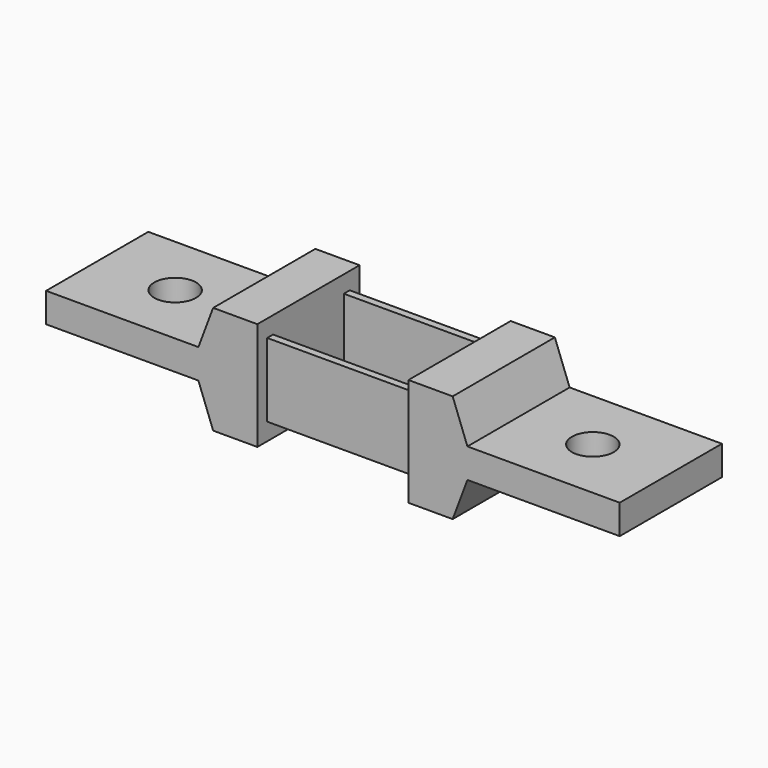
from build123d import *

# Parameters (mm, degrees)
F1_DEPTH = 13
F2_R     = 4.25
F2_R_2   = 2.5
F3_DEPTH = 14
F5_W     = 30.750612
F5_H     = 1.5
F6_DEPTH = 7.5


with BuildPart() as f1:
    # F0 (on Front) → F1 (new body, symmetric)
    with BuildSketch(Plane.XZ):
        Polygon((-15.375306, -11.020302), (-15.375306, -8.878698), (-15.375306, 8.878698), (-15.375306, 10.979698), (-24.375306, 10.979698), (-27.375306, 2.979698), (-58.375306, 2.979698), (-58.375306, -3.020302), (-27.375306, -3.020302), (-24.375306, -11.020302), align=None)
    extrude(amount=F1_DEPTH, both=True)

    # F2 (on face) → F3 (cut, through all)
    with BuildSketch(Plane.XY.offset(2.979698)):
        with Locations((-42.5, 0)):
            Circle(F2_R)
        with Locations((-19.875306, 0)):
            Circle(F2_R_2)
    extrude(amount=-F3_DEPTH, mode=Mode.SUBTRACT)



with BuildPart() as f4_1:
    # F4: instance of F1
    add(f1.part.mirror(Plane.YZ))


with BuildPart() as f1_1:
    add(f1.part)

    add(f4_1.part)  # F6 merges F4_1
    # F5 (on Top) → F6 (join, symmetric)
    with BuildSketch(Plane.XY):
        with Locations((0, 9.75)):
            Rectangle(F5_W, F5_H)
        with Locations((0, -9.75)):
            Rectangle(F5_W, F5_H)
    extrude(amount=F6_DEPTH, both=True)


solid = f1_1.part
